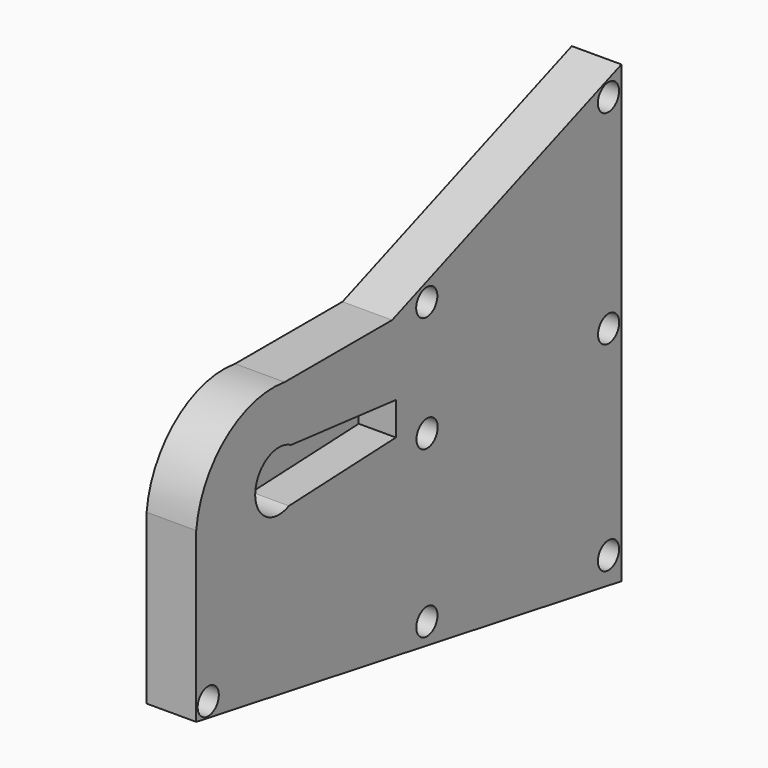
from build123d import *

# Parameters (mm, degrees)
PAD011_DEPTH         = 6
POCKET011_DEPTH      = 4.5
POCKET011_DEPTH_BACK = 100
SKETCH030_R          = 1.6
POCKET013_DEPTH      = 5


with BuildPart() as part:
    # CopySketch028 → Pad011 (new body)
    with BuildSketch(Plane.YZ):
        with BuildLine():
            Line((69.62, -34.0739220052), (104.26, -20.95))
            Line((104.26, -20.95), (104.26, -75.95))
            Line((104.26, -75.95), (40.01, -64.8058991482))
            Line((40.01, -64.8058991482), (40.01, -44.4358991482))
            ThreePointArc((53.3737933734, -34.0739220052), (44.4834146169, -36.4066415985), (40.01, -44.4358991482))
            Line((53.3737933734, -34.0739220052), (69.62, -34.0739220052))
        make_face()
    extrude(amount=PAD011_DEPTH)

    # Sketch028 → Pocket011 (cut, two sides)
    with BuildSketch(Plane.YZ.offset(6)) as pocket011_sk:
        with BuildLine():
            ThreePointArc((54.3211015793, -41.1506327381), (48.924493396, -44.0759059246), (54.0123107229, -47.5102498135))
            Line((54.0123107229, -47.5102498135), (70.19, -46.8041455781))
            Line((70.19, -46.8041455781), (70.19, -42.8041455781))
            Line((70.19, -42.8041455781), (54.3211015793, -41.1506327381))
        make_face()
    extrude(amount=-POCKET011_DEPTH, mode=Mode.SUBTRACT)
    extrude(pocket011_sk.sketch, amount=POCKET011_DEPTH_BACK, mode=Mode.SUBTRACT)

    # Sketch030 (on Face5 of Pocket011) → Pocket013 (cut)
    with BuildSketch(Plane.YZ.offset(6)):
        with Locations((74.898643, -48.273617)):
            Circle(SKETCH030_R)
        with Locations((74.845955, -34.282856)):
            Circle(SKETCH030_R)
        with Locations((102.302101, -23.633244)):
            Circle(SKETCH030_R)
        with Locations((102.323669, -48.271477)):
            Circle(SKETCH030_R)
        with Locations((102.305855, -72.383957)):
            Circle(SKETCH030_R)
        with Locations((74.864891, -68.281929)):
            Circle(SKETCH030_R)
        with Locations((41.8248800985, -63.330712397)):
            Circle(SKETCH030_R)
    extrude(amount=-POCKET013_DEPTH, mode=Mode.SUBTRACT)


with BuildPart() as part_1:
    # Body004 placement: moved
    add(part.part.moved(Location((10, 0, 0))))


solid = part_1.part
